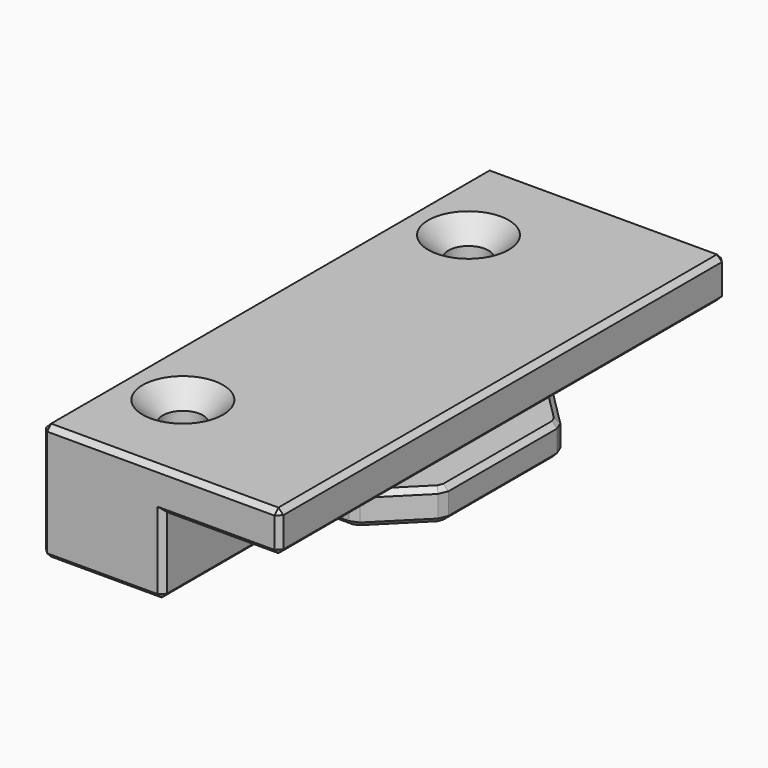
from build123d import *

# Parameters (mm, degrees)
PAD_DEPTH        = 55.5
HOLE_D           = 4
HOLE_DEPTH       = 25
HOLE_CSINK_D     = 8
HOLE_CSINK_ANGLE = 90
SKETCH002_W      = 3.15
SKETCH002_H      = 24.5
PAD001_DEPTH     = 11.6
CHAMFER_SIZE     = 5
CHAMFER001_SIZE  = 0.5


with BuildPart() as part:
    # Sketch → Pad (new body)
    with BuildSketch(Plane.XZ):
        Polygon((-12.15, 0), (-0.15, 0), (-0.15, 7.65), (11.45, 7.65), (11.45, 11.65), (-12.15, 11.65), align=None)
    extrude(amount=PAD_DEPTH)

    # Hole
    with Locations(Plane(origin=(0, 0, 11.65), x_dir=(-1, 0, 0), z_dir=(0, 0, 1))):
        with Locations((6.15, 10), (6.15, 45.5)):
            CounterSinkHole(HOLE_D / 2, HOLE_CSINK_D / 2, depth=HOLE_DEPTH, counter_sink_angle=HOLE_CSINK_ANGLE)

    # Sketch002 (on Face5 of Hole) → Pad001 (join)
    with BuildSketch(Plane(origin=(-0.15, 0, 0), x_dir=(0, 0, 1), z_dir=(1, 0, 0))):
        with Locations((3.825, 27.75)):
            Rectangle(SKETCH002_W, SKETCH002_H)
    extrude(amount=PAD001_DEPTH)

    # Chamfer
    chamfer_edges = [part.edges().sort_by_distance(p)[0] for p in [
        (11.45, -15.5, 3.825),
        (11.45, -40, 3.825),
    ]]
    chamfer(chamfer_edges, length=CHAMFER_SIZE)

    # Chamfer001
    chamfer001_edges = [part.edges().sort_by_distance(p)[0] for p in [
        (11.45, -27.75, 7.65),
        (11.45, -27.75, 11.65),
        (11.45, 0, 9.65),
        (11.45, -55.5, 9.65),
        (-6.15, -55.5, 0),
        (-0.15, -55.5, 3.825),
        (5.65, -55.5, 7.65),
        (-0.35, -55.5, 11.65),
        (-12.15, -55.5, 5.825),
        (-6.15, 0, 0),
        (-0.15, 0, 3.825),
        (5.65, 0, 7.65),
        (-0.35, 0, 11.65),
        (-12.15, 0, 5.825),
        (-12.15, -27.75, 11.65),
        (-12.15, -27.75, 0),
        (11.45, -27.75, 2.25),
        (11.45, -35, 3.825),
        (11.45, -20.5, 3.825),
        (11.45, -27.75, 5.4),
        (8.95, -18, 2.25),
        (6.45, -15.5, 3.825),
        (8.95, -18, 5.4),
        (8.95, -37.5, 5.4),
        (6.45, -40, 3.825),
        (8.95, -37.5, 2.25),
        (3.15, -40, 2.25),
        (3.15, -40, 5.4),
        (3.15, -15.5, 2.25),
        (3.15, -15.5, 5.4),
        (-0.15, -27.75, 0),
    ]]
    chamfer(chamfer001_edges, length=CHAMFER001_SIZE)


solid = part.part
